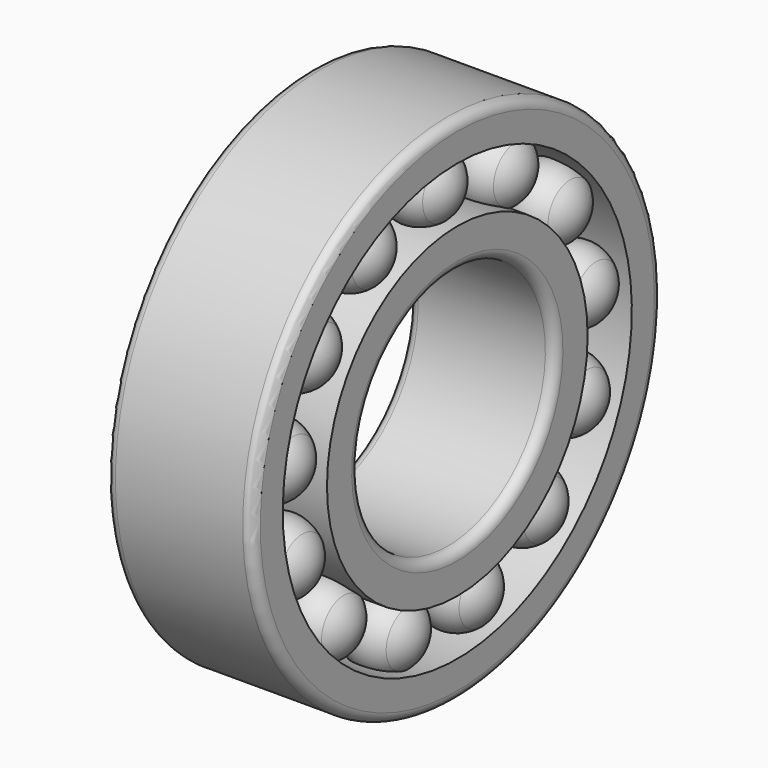
from build123d import *

# Parameters (mm, degrees)
F3_COUNT = 13


with BuildPart() as f1:
    # F0 (on Front) → F1 (revolve)
    with BuildSketch(Plane.XZ):
        with BuildLine():
            Line((0, 25.1746274349), (0, 22.3))
            Line((0, 22.3), (1.2838542217, 22.3))
            ThreePointArc((1.2838542217, 22.3), (3.75, 23.225), (6.2161457783, 22.3))
            Line((6.2161457783, 22.3), (8.7838542217, 22.3))
            ThreePointArc((8.7838542217, 22.3), (11.25, 23.225), (13.7161457783, 22.3))
            Line((13.7161457783, 22.3), (15, 22.3))
            Line((15, 22.3), (15, 25.1746274349))
            ThreePointArc((15, 25.1746274349), (14.7071067812, 25.8817342161), (14, 26.1746274349))
            Line((14, 26.1746274349), (1, 26.1746274349))
            ThreePointArc((1, 26.1746274349), (0.2928932188, 25.8817342161), (0, 25.1746274349))
        make_face()
        with BuildLine():
            ThreePointArc((6.2161457783, 22.3), (3.75, 23.225), (1.2838542217, 22.3))
            Line((1.2838542217, 22.3), (6.2161457783, 22.3))
        make_face()
        with BuildLine():
            Line((8.7838542217, 22.3), (13.7161457783, 22.3))
            ThreePointArc((13.7161457783, 22.3), (11.25, 23.225), (8.7838542217, 22.3))
        make_face()
    revolve(axis=Axis((7.5, 0, 0), (1, 0, 0)))


with BuildPart() as f1b:
    # F0 (on Front) → F1, piece 2 (revolve)
    with BuildSketch(Plane.XZ):
        with BuildLine():
            ThreePointArc((8.7838542217, 16.65), (11.25, 15.725), (13.7161457783, 16.65))
            Line((13.7161457783, 16.65), (8.7838542217, 16.65))
        make_face()
        with BuildLine():
            Line((6.2161457783, 16.65), (1.2838542217, 16.65))
            ThreePointArc((1.2838542217, 16.65), (3.75, 15.725), (6.2161457783, 16.65))
        make_face()
        with BuildLine():
            Line((1, 12.5), (14, 12.5))
            ThreePointArc((14, 12.5), (14.7071067812, 12.7928932188), (15, 13.5))
            Line((15, 13.5), (15, 16.65))
            Line((15, 16.65), (13.7161457783, 16.65))
            ThreePointArc((13.7161457783, 16.65), (11.25, 15.725), (8.7838542217, 16.65))
            Line((8.7838542217, 16.65), (6.2161457783, 16.65))
            ThreePointArc((6.2161457783, 16.65), (3.75, 15.725), (1.2838542217, 16.65))
            Line((1.2838542217, 16.65), (0, 16.65))
            Line((0, 16.65), (0, 13.5))
            ThreePointArc((0, 13.5), (0.2928932188, 12.7928932188), (1, 12.5))
        make_face()
    revolve(axis=Axis((7.5, 0, 0), (1, 0, 0)))


with BuildPart() as f2:
    # F0 (on Front) → F2 (revolve)
    with BuildSketch(Plane.XZ):
        with BuildLine():
            ThreePointArc((6.2161457783, 22.3), (3.75, 23.225), (1.2838542217, 22.3))
            Line((1.2838542217, 22.3), (6.2161457783, 22.3))
        make_face()
        with BuildLine():
            ThreePointArc((1.2838542217, 22.3), (0.3360179651, 21.0265239816), (0, 19.475))
            Line((0, 19.475), (3.75, 19.475))
            Line((3.75, 19.475), (7.5, 19.475))
            ThreePointArc((7.5, 19.475), (7.1639820349, 21.0265239816), (6.2161457783, 22.3))
            Line((6.2161457783, 22.3), (1.2838542217, 22.3))
        make_face()
    revolve(axis=Axis((7.5, 0, 19.475), (1, 0, 0)))


with BuildPart() as f2b:
    # F0 (on Front) → F2, piece 2 (revolve)
    with BuildSketch(Plane.XZ):
        with BuildLine():
            Line((11.25, 19.475), (15, 19.475))
            ThreePointArc((15, 19.475), (14.6639820349, 21.0265239816), (13.7161457783, 22.3))
            Line((13.7161457783, 22.3), (8.7838542217, 22.3))
            ThreePointArc((8.7838542217, 22.3), (7.8360179651, 21.0265239816), (7.5, 19.475))
            Line((7.5, 19.475), (11.25, 19.475))
        make_face()
        with BuildLine():
            Line((8.7838542217, 22.3), (13.7161457783, 22.3))
            ThreePointArc((13.7161457783, 22.3), (11.25, 23.225), (8.7838542217, 22.3))
        make_face()
    revolve(axis=Axis((7.5, 0, 19.475), (1, 0, 0)))


with BuildPart() as f3_1:
    # F3: instance of F2b
    add(f2b.part.rotate(Axis((7.5, 0, 0), (1, 0, 0)), 1 * 360 / F3_COUNT))


with BuildPart() as f3_2:
    # F3: instance of F2b
    add(f2b.part.rotate(Axis((7.5, 0, 0), (1, 0, 0)), 2 * 360 / F3_COUNT))


with BuildPart() as f3_3:
    # F3: instance of F2b
    add(f2b.part.rotate(Axis((7.5, 0, 0), (1, 0, 0)), 3 * 360 / F3_COUNT))


with BuildPart() as f3_4:
    # F3: instance of F2b
    add(f2b.part.rotate(Axis((7.5, 0, 0), (1, 0, 0)), 4 * 360 / F3_COUNT))


with BuildPart() as f3_5:
    # F3: instance of F2b
    add(f2b.part.rotate(Axis((7.5, 0, 0), (1, 0, 0)), 5 * 360 / F3_COUNT))


with BuildPart() as f3_6:
    # F3: instance of F2b
    add(f2b.part.rotate(Axis((7.5, 0, 0), (1, 0, 0)), 6 * 360 / F3_COUNT))


with BuildPart() as f3_7:
    # F3: instance of F2b
    add(f2b.part.rotate(Axis((7.5, 0, 0), (1, 0, 0)), 7 * 360 / F3_COUNT))


with BuildPart() as f3_8:
    # F3: instance of F2b
    add(f2b.part.rotate(Axis((7.5, 0, 0), (1, 0, 0)), 8 * 360 / F3_COUNT))


with BuildPart() as f3_9:
    # F3: instance of F2b
    add(f2b.part.rotate(Axis((7.5, 0, 0), (1, 0, 0)), 9 * 360 / F3_COUNT))


with BuildPart() as f3_10:
    # F3: instance of F2b
    add(f2b.part.rotate(Axis((7.5, 0, 0), (1, 0, 0)), 10 * 360 / F3_COUNT))


with BuildPart() as f3_11:
    # F3: instance of F2b
    add(f2b.part.rotate(Axis((7.5, 0, 0), (1, 0, 0)), 11 * 360 / F3_COUNT))


with BuildPart() as f3_12:
    # F3: instance of F2b
    add(f2b.part.rotate(Axis((7.5, 0, 0), (1, 0, 0)), 12 * 360 / F3_COUNT))


with BuildPart() as f3_13:
    # F3: instance of F2
    add(f2.part.rotate(Axis((7.5, 0, 0), (1, 0, 0)), 1 * 360 / F3_COUNT))


with BuildPart() as f3_14:
    # F3: instance of F2
    add(f2.part.rotate(Axis((7.5, 0, 0), (1, 0, 0)), 2 * 360 / F3_COUNT))


with BuildPart() as f3_15:
    # F3: instance of F2
    add(f2.part.rotate(Axis((7.5, 0, 0), (1, 0, 0)), 3 * 360 / F3_COUNT))


with BuildPart() as f3_16:
    # F3: instance of F2
    add(f2.part.rotate(Axis((7.5, 0, 0), (1, 0, 0)), 4 * 360 / F3_COUNT))


with BuildPart() as f3_17:
    # F3: instance of F2
    add(f2.part.rotate(Axis((7.5, 0, 0), (1, 0, 0)), 5 * 360 / F3_COUNT))


with BuildPart() as f3_18:
    # F3: instance of F2
    add(f2.part.rotate(Axis((7.5, 0, 0), (1, 0, 0)), 6 * 360 / F3_COUNT))


with BuildPart() as f3_19:
    # F3: instance of F2
    add(f2.part.rotate(Axis((7.5, 0, 0), (1, 0, 0)), 7 * 360 / F3_COUNT))


with BuildPart() as f3_20:
    # F3: instance of F2
    add(f2.part.rotate(Axis((7.5, 0, 0), (1, 0, 0)), 8 * 360 / F3_COUNT))


with BuildPart() as f3_21:
    # F3: instance of F2
    add(f2.part.rotate(Axis((7.5, 0, 0), (1, 0, 0)), 9 * 360 / F3_COUNT))


with BuildPart() as f3_22:
    # F3: instance of F2
    add(f2.part.rotate(Axis((7.5, 0, 0), (1, 0, 0)), 10 * 360 / F3_COUNT))


with BuildPart() as f3_23:
    # F3: instance of F2
    add(f2.part.rotate(Axis((7.5, 0, 0), (1, 0, 0)), 11 * 360 / F3_COUNT))


with BuildPart() as f3_24:
    # F3: instance of F2
    add(f2.part.rotate(Axis((7.5, 0, 0), (1, 0, 0)), 12 * 360 / F3_COUNT))


solid = Compound([f1.part, f1b.part, f2.part, f2b.part, f3_1.part, f3_2.part, f3_3.part, f3_4.part, f3_5.part, f3_6.part, f3_7.part, f3_8.part, f3_9.part, f3_10.part, f3_11.part, f3_12.part, f3_13.part, f3_14.part, f3_15.part, f3_16.part, f3_17.part, f3_18.part, f3_19.part, f3_20.part, f3_21.part, f3_22.part, f3_23.part, f3_24.part])
